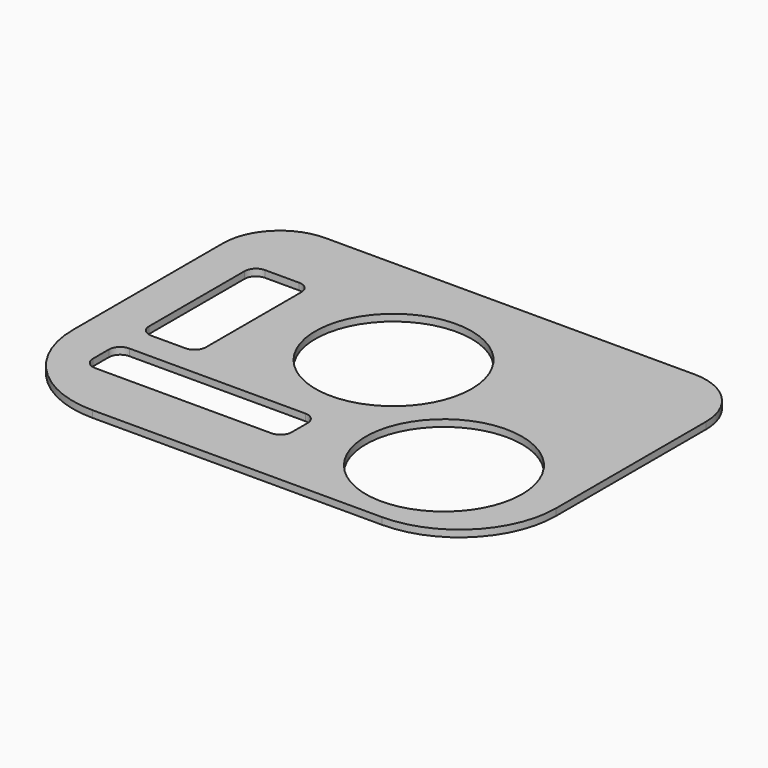
from build123d import *

# Parameters (mm, degrees)
F0_W     = 215.9
F0_H     = 152.4
F1_DEPTH = 3.048
F2_W     = 25.4
F2_H     = 63.5
F2_R     = 34.925
F2_W_2   = 88.9
F2_H_2   = 19.05
F3_DEPTH = 25.4
F4_R     = 43.18
F5_R     = 5.08
F6_R     = 25.4


with BuildPart() as f1:
    # F0 (on Top) → F1 (new body)
    with BuildSketch(Plane.XY):
        Rectangle(F0_W, F0_H)
    extrude(amount=F1_DEPTH)

    # F2 (on Top) → F3 (cut)
    with BuildSketch(Plane.XY):
        with Locations((-76.2, 12.341094)):
            Rectangle(F2_W, F2_H)
        with Locations((-6.35, 19.05)):
            Circle(F2_R)
        with Locations((57.15, -32.164129)):
            Circle(F2_R)
        with Locations((-44.45, -41.275)):
            Rectangle(F2_W_2, F2_H_2)
    extrude(amount=F3_DEPTH, mode=Mode.SUBTRACT)

    # F4
    f4_edges = [f1.edges().sort_by_distance(p)[0] for p in [
        (-107.95, -76.2, 1.524),
        (107.95, -76.2, 1.524),
    ]]
    fillet(f4_edges, radius=F4_R)

    # F5
    f5_edges = [f1.edges().sort_by_distance(p)[0] for p in [
        (-88.9, 44.091094, 1.524),
        (-63.5, 44.091094, 1.524),
        (-88.9, -19.408906, 1.524),
        (-63.5, -19.408906, 1.524),
        (0, -50.8, 1.524),
        (0, -31.75, 1.524),
        (-88.9, -50.8, 1.524),
        (-88.9, -31.75, 1.524),
    ]]
    fillet(f5_edges, radius=F5_R)

    # F6
    f6_edges = [f1.edges().sort_by_distance(p)[0] for p in [
        (-107.95, 76.2, 1.524),
        (107.95, 76.2, 1.524),
    ]]
    fillet(f6_edges, radius=F6_R)


solid = f1.part
